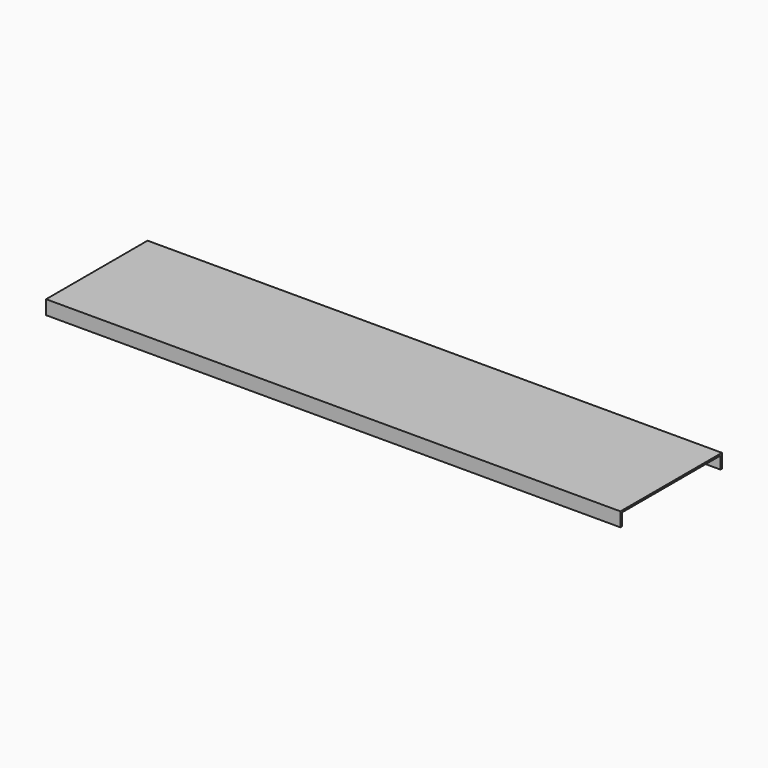
from build123d import *

# Parameters (mm, degrees)
F1_DEPTH = 2070.1


with BuildPart() as f1:
    # F0 (on Right) → F1 (new body)
    with BuildSketch(Plane.YZ):
        Polygon((228.6, 0), (0, 0), (0, -6.35), (222.25, -6.35), (222.25, -50.8), (228.6, -50.8), align=None)
        Polygon((0, -6.35), (0, 0), (-228.6, 0), (-228.6, -50.8), (-222.25, -50.8), (-222.25, -6.35), align=None)
    extrude(amount=F1_DEPTH)


solid = f1.part
